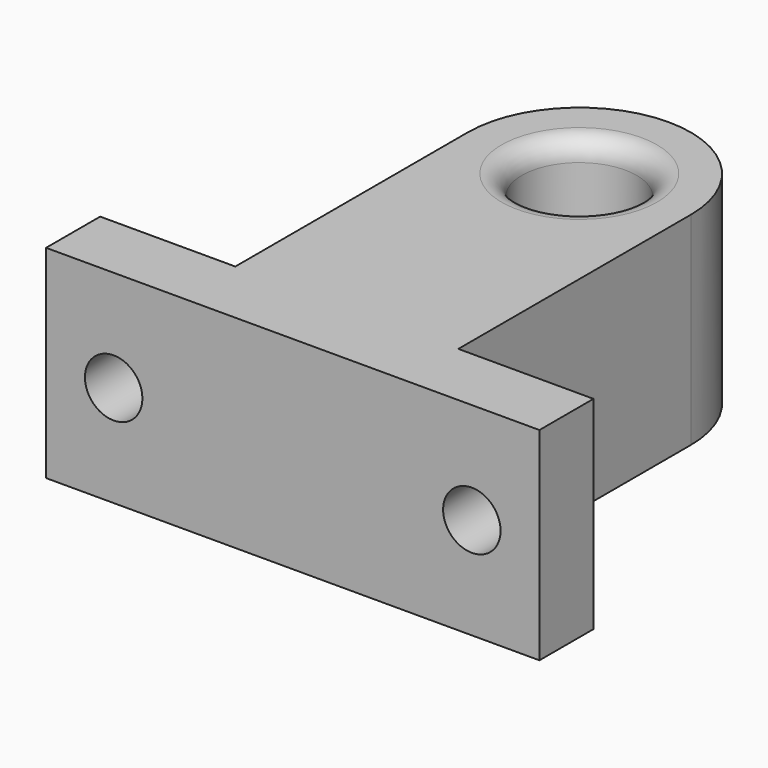
from build123d import *

# Parameters (mm, degrees)
F0_R     = 4.25
F1_DEPTH = 15
F2_R     = 2.125
F3_DEPTH = 34.751
F4_R     = 1.5


with BuildPart() as f1:
    # F0 (on Top) → F1 (new body)
    with BuildSketch(Plane.XY):
        with BuildLine():
            Line((8.25, -21.5), (8.25, 0))
            ThreePointArc((8.25, 0), (0, 8.25), (-8.25, 0))
            Line((-8.25, 0), (-8.25, -21.5))
            Line((-8.25, -21.5), (-18.25, -21.5))
            Line((-18.25, -21.5), (-18.25, -26.5))
            Line((-18.25, -26.5), (0, -26.5))
            Line((0, -26.5), (18.25, -26.5))
            Line((18.25, -26.5), (18.25, -21.5))
            Line((18.25, -21.5), (8.25, -21.5))
        make_face()
        Circle(F0_R, mode=Mode.SUBTRACT)
    extrude(amount=F1_DEPTH)

    # F2 (on face) → F3 (cut, through all)
    with BuildSketch(Plane.XZ.offset(26.5)):
        with Locations((-13.25, 7.5)):
            Circle(F2_R)
        with Locations((13.25, 7.5)):
            Circle(F2_R)
    extrude(amount=-F3_DEPTH, mode=Mode.SUBTRACT)

    # F4
    f4_edges = [f1.edges().sort_by_distance(p)[0] for p in [
        (-4.25, 0, 15),
    ]]
    fillet(f4_edges, radius=F4_R)


solid = f1.part
